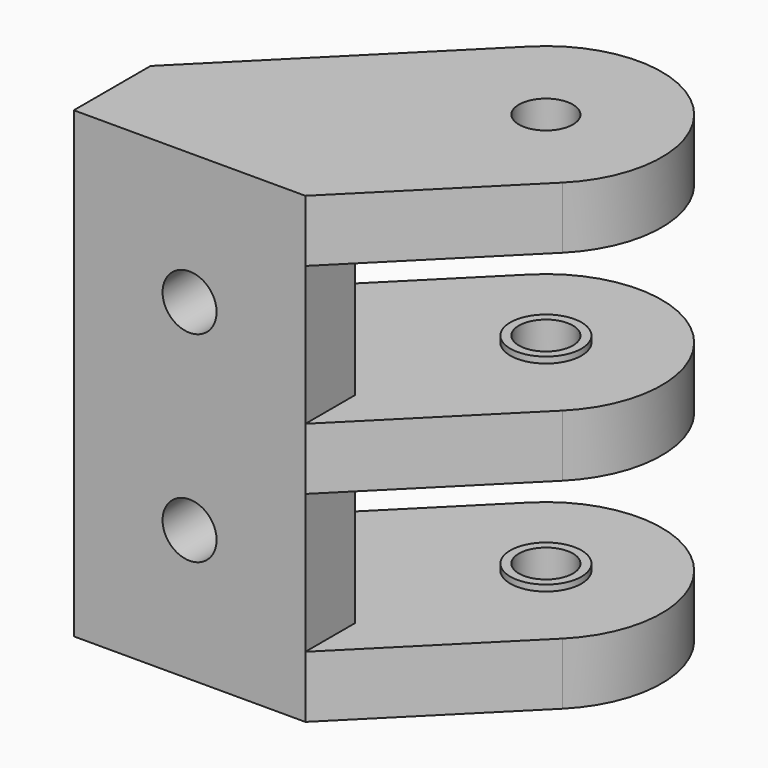
from build123d import *

# Parameters (mm, degrees)
F0_R      = 1.75
F1_DEPTH  = 30
F2_W      = 23.070765
F2_H      = 9
F2_W_2    = 27.746933
F3_DEPTH  = 39.1
F4_W      = 2.213204
F4_H      = 16.336968
F5_DEPTH  = 500
F6_R      = 2.30465
F6_R_2    = 1.75
F7_DEPTH  = 0.4
F8_R      = 2.30465
F8_R_2    = 1.75
F9_DEPTH  = 0.4
F10_R     = 2.30465
F10_R_2   = 1.75
F11_DEPTH = 0.4
F12_R     = 2.30465
F12_R_2   = 1.75
F13_DEPTH = 0.4
F14_W     = 4
F14_H     = 9
F15_DEPTH = 6
F16_R     = 1.75
F17_DEPTH = 25


with BuildPart() as f1:
    # F0 (on Top) → F1 (new body)
    with BuildSketch(Plane.XY):
        with BuildLine():
            Line((-15.037711, -5.349152), (2.175493, -5.349152))
            Line((2.175493, -5.349152), (11.420161, 3.895517))
            ThreePointArc((11.420161, 3.895517), (11.420161, 14.502118), (0.813559, 14.502118))
            Line((0.813559, 14.502118), (-15.037711, -1.349152))
            Line((-15.037711, -1.349152), (-15.037711, -5.349152))
        make_face()
        with Locations((6.11686, 9.198817)):
            Circle(F0_R, mode=Mode.SUBTRACT)
    extrude(amount=F1_DEPTH)

    # F2 (on face) → F3 (cut)
    with BuildSketch(Plane(origin=(-15.037711, 0, 0), x_dir=(0, -1, 0), z_dir=(-1, 0, 0))):
        with Locations((-10.18623, 8.5)):
            Rectangle(F2_W, F2_H)
        with Locations((-12.524314, 21.5)):
            Rectangle(F2_W_2, F2_H)
    extrude(amount=-F3_DEPTH, mode=Mode.SUBTRACT)

    # F4 (on face) → F5 (cut)
    with BuildSketch(Plane.XY.offset(30)):
        with Locations((-13.931109, 2.819332)):
            Rectangle(F4_W, F4_H)
    extrude(amount=-F5_DEPTH, mode=Mode.SUBTRACT)

    # F6 (on face) → F7 (join)
    with BuildSketch(Plane(origin=(0, 0, 13), x_dir=(1, 0, 0), z_dir=(0, 0, -1))):
        with Locations((6.11686, -9.198817)):
            Circle(F6_R)
        with Locations((6.11686, -9.198817)):
            Circle(F6_R_2, mode=Mode.SUBTRACT)
    extrude(amount=F7_DEPTH)

    # F8 (on face) → F9 (join)
    with BuildSketch(Plane(origin=(0, 0, 26), x_dir=(1, 0, 0), z_dir=(0, 0, -1))):
        with Locations((6.11686, -9.198817)):
            Circle(F8_R)
        with Locations((6.11686, -9.198817)):
            Circle(F8_R_2, mode=Mode.SUBTRACT)
    extrude(amount=F9_DEPTH)

    # F10 (on face) → F11 (join)
    with BuildSketch(Plane.XY.offset(17)):
        with Locations((6.11686, 9.198817)):
            Circle(F10_R)
        with Locations((6.11686, 9.198817)):
            Circle(F10_R_2, mode=Mode.SUBTRACT)
    extrude(amount=F11_DEPTH)

    # F12 (on face) → F13 (join)
    with BuildSketch(Plane.XY.offset(4)):
        with Locations((6.11686, 9.198817)):
            Circle(F12_R)
        with Locations((6.11686, 9.198817)):
            Circle(F12_R_2, mode=Mode.SUBTRACT)
    extrude(amount=F13_DEPTH)

    # F14 (on face) → F15 (cut)
    with BuildSketch(Plane.XZ.offset(5.349152)):
        with Locations((4.175493, 8.5)):
            Rectangle(F14_W, F14_H)
        with Locations((4.175493, 21.5)):
            Rectangle(F14_W, F14_H)
    extrude(amount=-F15_DEPTH, mode=Mode.SUBTRACT)

    # F16 (on face) → F17 (cut)
    with BuildSketch(Plane(origin=(0, -1.349152, 0), x_dir=(-1, 0, 0), z_dir=(0, 1, 0))):
        with Locations((5.324507, 21.5)):
            Circle(F16_R)
        with Locations((5.324507, 8.5)):
            Circle(F16_R)
    extrude(amount=-F17_DEPTH, mode=Mode.SUBTRACT)


solid = f1.part
